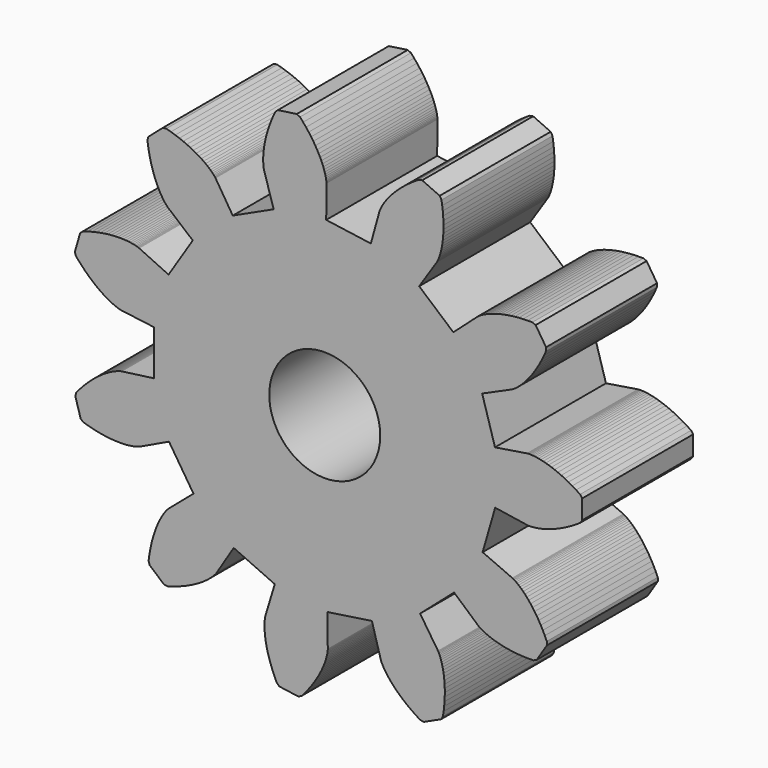
from build123d import *

# Parameters (mm, degrees)
F0_R     = 4
F1_DEPTH = 10


with BuildPart() as f1:
    # F0 (on Front) → F1 (new body)
    with BuildSketch(Plane.XZ):
        Polygon((11.109072, -4.98757), (12.014403, -1.867533), (14.327932, -2.220335), (14.343441, -2.222134), (14.373813, -2.22472), (14.419098, -2.227155), (14.479305, -2.22849), (14.554393, -2.227782), (14.644275, -2.224085), (14.748826, -2.216466), (14.867873, -2.203986), (15.001195, -2.185725), (15.148533, -2.16076), (15.309577, -2.12819), (15.483982, -2.087119), (15.671356, -2.036677), (15.871264, -1.975997), (16.083231, -1.904238), (16.30674, -1.820581), (16.54124, -1.724226), (16.786129, -1.614399), (17.040781, -1.490343), (17.304524, -1.351342), (17.576652, -1.196696), (17.856425, -1.025744), (18.143069, -0.837849), (18.288506, -0.627387), (18.284088, 0.758198), (18.137313, 0.967729), (17.849476, 1.153791), (17.568617, 1.322955), (17.295508, 1.475863), (17.030886, 1.61318), (16.775449, 1.735607), (16.529862, 1.843875), (16.294756, 1.938732), (16.070717, 2.020961), (15.858296, 2.091366), (15.658005, 2.150769), (15.470315, 2.200019), (15.295649, 2.239973), (15.134399, 2.271517), (14.986908, 2.29554), (14.853471, 2.312954), (14.734348, 2.324672), (14.629751, 2.331626), (14.539844, 2.334746), (14.464755, 2.334977), (14.404558, 2.333258), (14.35929, 2.330537), (14.328934, 2.327754), (14.313438, 2.325856), (12.002203, 1.958311), (11.076996, 5.072511), (13.213999, 6.026504), (13.228021, 6.033376), (13.254968, 6.047619), (13.294382, 6.070056), (13.345752, 6.101483), (13.408537, 6.142673), (13.482153, 6.194378), (13.565987, 6.257313), (13.659391, 6.332172), (13.761673, 6.419613), (13.872126, 6.520272), (13.989996, 6.63474), (14.114511, 6.76358), (14.244869, 6.907317), (14.380236, 7.066443), (14.519759, 7.241408), (14.662559, 7.432622), (14.807738, 7.64046), (14.954374, 7.865252), (15.101531, 8.107288), (15.248255, 8.366814), (15.393576, 8.644033), (15.536513, 8.939106), (15.67607, 9.252144), (15.684635, 9.507826), (14.931814, 10.671064), (14.695059, 10.767981), (14.352321, 10.768888), (14.02459, 10.759356), (13.71217, 10.740338), (13.415316, 10.71279), (13.134238, 10.677682), (12.869106, 10.635988), (12.620037, 10.588677), (12.387108, 10.536731), (12.170345, 10.481115), (11.969733, 10.422803), (11.785212, 10.362761), (11.616674, 10.301942), (11.463968, 10.241299), (11.326899, 10.181769), (11.205231, 10.124277), (11.098682, 10.069732), (11.00693, 10.019033), (10.929609, 9.973052), (10.866316, 9.932647), (10.816604, 9.898659), (10.779993, 9.871892), (10.755961, 9.853141), (10.74395, 9.843168), (8.998327, 8.284422), (6.536329, 10.404047), (7.818324, 12.361951), (7.826403, 12.375311), (7.841375, 12.401862), (7.862401, 12.442046), (7.888626, 12.496257), (7.919172, 12.564851), (7.953151, 12.648148), (7.98965, 12.746416), (8.027753, 12.859888), (8.066524, 12.988751), (8.105023, 13.133142), (8.142297, 13.293164), (8.17739, 13.468869), (8.209341, 13.660267), (8.23719, 13.867315), (8.259971, 14.089938), (8.276723, 14.328001), (8.286491, 14.581336), (8.288317, 14.849721), (8.281261, 15.132894), (8.26438, 15.430546), (8.236757, 15.742325), (8.197474, 16.06783), (8.145637, 16.406625), (8.01461, 16.626348), (6.752403, 17.197923), (6.500834, 17.151454), (6.212015, 16.96692), (5.941463, 16.781717), (5.688922, 16.596808), (5.454085, 16.413143), (5.236607, 16.231649), (5.036106, 16.05323), (4.852152, 15.878774), (4.684284, 15.709141), (4.532002, 15.545163), (4.39476, 15.387649), (4.271994, 15.237377), (4.163092, 15.095097), (4.067412, 14.961522), (3.984287, 14.837338), (3.913019, 14.723193), (3.852871, 14.619703), (3.803096, 14.527445), (3.762908, 14.446961), (3.731506, 14.378754), (3.708062, 14.323284), (3.691735, 14.280974), (3.681652, 14.252206), (3.676942, 14.237321), (3.051152, 11.982264), (-0.165969, 12.434353), (-0.146009, 14.774543), (-0.146434, 14.79015), (-0.148196, 14.820581), (-0.152232, 14.865753), (-0.159479, 14.925537), (-0.170867, 14.999757), (-0.187316, 15.0882), (-0.209736, 15.190603), (-0.239031, 15.306662), (-0.276081, 15.436029), (-0.32176, 15.578311), (-0.376919, 15.733084), (-0.44239, 15.899868), (-0.518986, 16.078157), (-0.607498, 16.267394), (-0.70869, 16.466991), (-0.823306, 16.676321), (-0.952051, 16.894718), (-1.095614, 17.121486), (-1.254647, 17.355892), (-1.429768, 17.597166), (-1.621567, 17.844517), (-1.830596, 18.097113), (-2.057372, 18.3541), (-2.286389, 18.468105), (-3.657244, 18.266543), (-3.843752, 18.091442), (-3.986957, 17.780053), (-4.11443, 17.477981), (-4.226913, 17.185891), (-4.325173, 16.90442), (-4.410004, 16.634158), (-4.482215, 16.375665), (-4.542648, 16.129449), (-4.592156, 15.89599), (-4.631615, 15.675711), (-4.66191, 15.469005), (-4.683944, 15.276216), (-4.698637, 15.097643), (-4.706911, 14.933547), (-4.709699, 14.784135), (-4.707945, 14.64958), (-4.702592, 14.530001), (-4.694588, 14.425477), (-4.684883, 14.336044), (-4.674424, 14.261685), (-4.664158, 14.202346), (-4.655021, 14.157924), (-4.647948, 14.128273), (-4.643863, 14.113205), (-3.951135, 11.877805), (-6.901966, 10.518817), (-8.150377, 12.498302), (-8.159173, 12.5112), (-8.177107, 12.535848), (-8.204925, 12.571669), (-8.243342, 12.618043), (-8.29305, 12.674326), (-8.354704, 12.739835), (-8.428929, 12.813861), (-8.516318, 12.895659), (-8.617427, 12.984455), (-8.73278, 13.079456), (-8.862858, 13.17984), (-9.008106, 13.284752), (-9.168933, 13.393325), (-9.345702, 13.504668), (-9.538742, 13.61787), (-9.748333, 13.732005), (-9.974717, 13.846128), (-10.21809, 13.95928), (-10.478606, 14.070495), (-10.756371, 14.178792), (-11.051451, 14.28318), (-11.36386, 14.382669), (-11.693574, 14.476257), (-11.947871, 14.448347), (-12.992132, 13.537641), (-13.054369, 13.289502), (-13.00649, 12.950125), (-12.950416, 12.627089), (-12.887126, 12.320553), (-12.817612, 12.030639), (-12.742862, 11.757422), (-12.66386, 11.50092), (-12.581585, 11.26112), (-12.497016, 11.037954), (-12.411118, 10.831312), (-12.32485, 10.641041), (-12.239158, 10.466942), (-12.154974, 10.308775), (-12.073217, 10.166255), (-11.994785, 10.039054), (-11.920562, 9.926806), (-11.851411, 9.829106), (-11.788167, 9.745501), (-11.731651, 9.675513), (-11.682651, 9.618612), (-11.641933, 9.574244), (-11.61023, 9.541814), (-11.58825, 9.520696), (-11.576666, 9.510225), (-9.785358, 8.004203), (-11.533032, 5.26561), (-13.653452, 6.255918), (-13.667825, 6.262014), (-13.696238, 6.273054), (-13.739004, 6.288147), (-13.796397, 6.30639), (-13.868641, 6.326864), (-13.955925, 6.348642), (-14.058388, 6.370787), (-14.176127, 6.392352), (-14.309195, 6.41239), (-14.457597, 6.429947), (-14.621294, 6.444068), (-14.800207, 6.453798), (-14.9942, 6.458187), (-15.203107, 6.456286), (-15.426705, 6.447152), (-15.664728, 6.429854), (-15.916873, 6.403469), (-16.182788, 6.367081), (-16.462074, 6.319796), (-16.754295, 6.26073), (-17.058966, 6.189016), (-17.375571, 6.103809), (-17.70354, 6.004282), (-17.90238, 5.84332), (-18.288506, 4.512616), (-18.206708, 4.270221), (-17.982949, 4.010603), (-17.761128, 3.769164), (-17.54216, 3.545505), (-17.326943, 3.339198), (-17.116346, 3.149765), (-16.911209, 2.976695), (-16.712349, 2.819442), (-16.520552, 2.677425), (-16.336571, 2.550026), (-16.161131, 2.4366), (-15.994918, 2.336469), (-15.838585, 2.248922), (-15.692755, 2.173228), (-15.558005, 2.108622), (-15.434878, 2.054324), (-15.323882, 2.009518), (-15.225479, 1.973376), (-15.140096, 1.945053), (-15.068113, 1.923676), (-15.00987, 1.908368), (-14.965667, 1.898225), (-14.935759, 1.892341), (-14.920354, 1.889797), (-12.599192, 1.591305), (-12.588834, -1.657409), (-14.908045, -1.970697), (-14.923432, -1.97334), (-14.953304, -1.979413), (-14.99744, -1.989838), (-15.055584, -2.005519), (-15.127429, -2.027352), (-15.212633, -2.056221), (-15.310801, -2.092989), (-15.42151, -2.138501), (-15.544286, -2.193585), (-15.678621, -2.259049), (-15.823969, -2.335671), (-15.979738, -2.424211), (-16.145309, -2.525401), (-16.320025, -2.639945), (-16.503189, -2.768512), (-16.694076, -2.911751), (-16.891928, -3.070269), (-17.095957, -3.244642), (-17.305344, -3.435415), (-17.519241, -3.643091), (-17.736777, -3.868139), (-17.957055, -4.110988), (-18.179154, -4.37203), (-18.259403, -4.61494), (-17.8648, -5.943156), (-17.664939, -6.102848), (-17.336342, -6.200279), (-17.019201, -6.283465), (-16.714077, -6.353234), (-16.421485, -6.410438), (-16.141904, -6.455941), (-15.875762, -6.490632), (-15.623454, -6.515409), (-15.385323, -6.531188), (-15.161674, -6.538896), (-14.952759, -6.539464), (-14.758797, -6.53384), (-14.579951, -6.522969), (-14.416347, -6.507803), (-14.268058, -6.489301), (-14.135122, -6.468416), (-14.017523, -6.446098), (-13.915202, -6.423302), (-13.828059, -6.400967), (-13.755946, -6.380032), (-13.698673, -6.361424), (-13.656004, -6.346059), (-13.627663, -6.334838), (-13.613329, -6.328651), (-11.499266, -5.324842), (-9.734163, -8.052236), (-11.515832, -9.56965), (-11.527348, -9.580192), (-11.549193, -9.601452), (-11.58069, -9.634084), (-11.621125, -9.67871), (-11.669761, -9.735919), (-11.725831, -9.80627), (-11.788537, -9.890274), (-11.857064, -9.988414), (-11.930571, -10.101133), (-12.00819, -10.228831), (-12.089036, -10.371869), (-12.172211, -10.530571), (-12.25679, -10.705214), (-12.341842, -10.896029), (-12.426422, -11.103213), (-12.509566, -11.326915), (-12.590308, -11.567237), (-12.667675, -11.824235), (-12.740682, -12.097927), (-12.808345, -12.388277), (-12.869677, -12.695209), (-12.923692, -13.018597), (-12.969405, -13.358272), (-12.905588, -13.60601), (-11.855539, -14.510037), (-11.601071, -14.536324), (-11.271961, -14.440635), (-10.960191, -14.339159), (-10.665784, -14.23289), (-10.388714, -14.122824), (-10.128915, -14.009951), (-9.886268, -13.895247), (-9.660616, -13.779684), (-9.451758, -13.664215), (-9.259443, -13.549786), (-9.083387, -13.437315), (-8.923256, -13.327719), (-8.77868, -13.221881), (-8.649244, -13.120674), (-8.5345, -13.024939), (-8.433958, -12.935497), (-8.347092, -12.853144), (-8.273341, -12.778649), (-8.212105, -12.712748), (-8.162758, -12.656148), (-8.124637, -12.60953), (-8.097049, -12.573533), (-8.079273, -12.548772), (-8.07056, -12.535818), (-6.834796, -10.548412), (-3.875358, -11.888555), (-4.553818, -14.128327), (-4.557807, -14.143423), (-4.56469, -14.173117), (-4.573544, -14.217596), (-4.583433, -14.276999), (-4.593417, -14.351422), (-4.602552, -14.440918), (-4.609889, -14.545489), (-4.614479, -14.665099), (-4.615376, -14.799662), (-4.611634, -14.949054), (-4.602313, -15.113094), (-4.586485, -15.29157), (-4.56322, -15.484215), (-4.531608, -15.690724), (-4.490747, -15.910744), (-4.43975, -16.143885), (-4.377748, -16.38971), (-4.303887, -16.647739), (-4.217338, -16.917453), (-4.117285, -17.198292), (-4.00294, -17.489659), (-3.873544, -17.790913), (-3.728357, -18.101381), (-3.540733, -18.275287), (-2.168622, -18.468105), (-1.940338, -18.352642), (-1.715206, -18.094215), (-1.507793, -17.84029), (-1.317574, -17.591722), (-1.143994, -17.349336), (-0.986459, -17.11392), (-0.844345, -16.886243), (-0.716994, -16.667027), (-0.603719, -16.456972), (-0.5038, -16.256732), (-0.416496, -16.066935), (-0.341038, -15.888163), (-0.276632, -15.720964), (-0.222462, -15.565843), (-0.17769, -15.423271), (-0.141465, -15.293671), (-0.112914, -15.177429), (-0.091145, -15.074884), (-0.075259, -14.986339), (-0.064346, -14.912046), (-0.05748, -14.852217), (-0.053731, -14.807023), (-0.052166, -14.776579), (-0.051839, -14.760969), (-0.08672, -12.420954), (3.127453, -11.94836), (3.767609, -14.199381), (3.772415, -14.214236), (3.782677, -14.242938), (3.799276, -14.285143), (3.823073, -14.340463), (3.854909, -14.40847), (3.895609, -14.488696), (3.945974, -14.580635), (4.006777, -14.683738), (4.078775, -14.797427), (4.16269, -14.921079), (4.259218, -15.054039), (4.369024, -15.195624), (4.492749, -15.345109), (4.630989, -15.501746), (4.784317, -15.664747), (4.953263, -15.833307), (5.138325, -16.006586), (5.339959, -16.183722), (5.55859, -16.363827), (5.794593, -16.545992), (6.04831, -16.729286), (6.320034, -16.912761), (6.610026, -17.095447), (6.861886, -17.140313), (8.120423, -16.560701), (8.250046, -16.340148), (8.299722, -16.001029), (8.336929, -15.675277), (8.362565, -15.363329), (8.377543, -15.065576), (8.382796, -14.782364), (8.379256, -14.513995), (8.367876, -14.260729), (8.349605, -14.022775), (8.325403, -13.800306), (8.296236, -13.593437), (8.263066, -13.402248), (8.226852, -13.22677), (8.188559, -13.066988), (8.14914, -12.922845), (8.109549, -12.794234), (8.070724, -12.681006), (8.033596, -12.582973), (7.999087, -12.499896), (7.968103, -12.431495), (7.941534, -12.377452), (7.920251, -12.337406), (7.905112, -12.310948), (7.896947, -12.29764), (6.602495, -10.347952), (9.050927, -8.212669), (10.806454, -9.760253), (10.818527, -9.770152), (10.84268, -9.788748), (10.87946, -9.815279), (10.929387, -9.848951), (10.992938, -9.888952), (11.07055, -9.934438), (11.162624, -9.984552), (11.269518, -10.038416), (11.39155, -10.095132), (11.528995, -10.153786), (11.682084, -10.213453), (11.851006, -10.273196), (12.035907, -10.33206), (12.236886, -10.389092), (12.453999, -10.443324), (12.687255, -10.493785), (12.93662, -10.539505), (13.202015, -10.579509), (13.48331, -10.612824), (13.780335, -10.638477), (14.09287, -10.655506), (14.420655, -10.662946), (14.763378, -10.659853), (14.999511, -10.561428), (15.744899, -9.393412), (15.734706, -9.137791), (15.593152, -8.82565), (15.448337, -8.531495), (15.301253, -8.255207), (15.152877, -7.996622), (15.00418, -7.75553), (14.856111, -7.531678), (14.70961, -7.324769), (14.565595, -7.134469), (14.424958, -6.960397), (14.288579, -6.80214), (14.157308, -6.659235), (14.031975, -6.531191), (13.913375, -6.417479), (13.802284, -6.317528), (13.699446, -6.230737), (13.605569, -6.156475), (13.521334, -6.094077), (13.447388, -6.042843), (13.384344, -6.002054), (13.332773, -5.970954), (13.293218, -5.94877), (13.266178, -5.9347), (13.252115, -5.927917), align=None)
        with Locations((-0.272111, 0.006234)):
            Circle(F0_R, mode=Mode.SUBTRACT)
    extrude(amount=F1_DEPTH)


solid = f1.part
